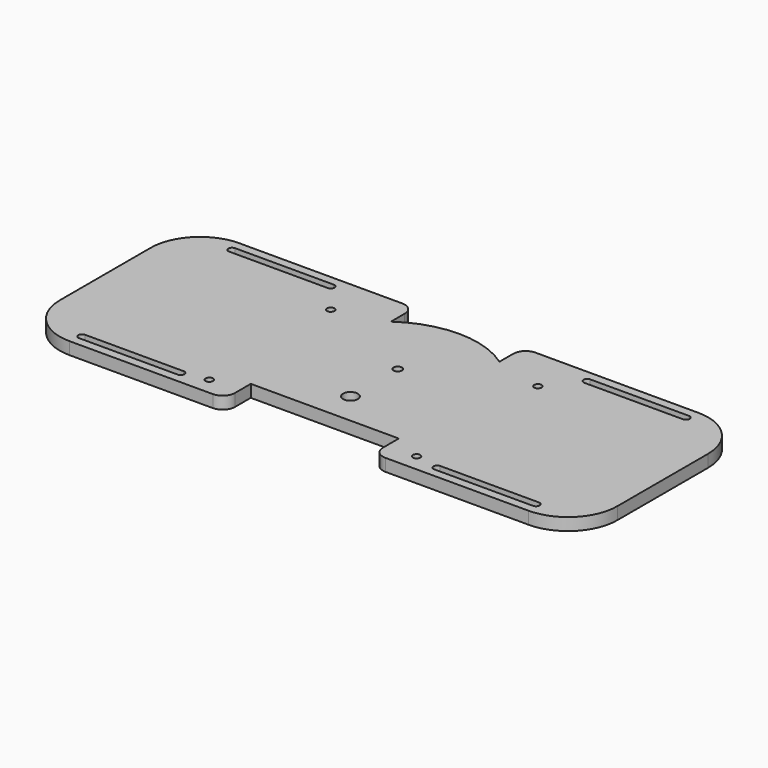
from build123d import *

# Parameters (mm, degrees)
PAD_DEPTH       = 5
SKETCH001_R     = 3
SKETCH001_R_2   = 1.7
SKETCH001_R_3   = 1.5
SKETCH001_W     = 60
SKETCH001_H     = 20
POCKET_DEPTH    = 5.001
FILLET_R        = 5
FILLET001_R     = 20
SKETCH002_R     = 3.5
POCKET001_DEPTH = 2


with BuildPart() as part:
    # Sketch → Pad (new body)
    with BuildSketch(Plane.XY):
        with BuildLine():
            ThreePointArc((-22, -30.983867), (0, -38), (22, -30.983867))
            Line((22, -43.003867), (22, -30.983867))
            Line((113, -43.003867), (22, -43.003867))
            Line((113, 43.003867), (113, -43.003867))
            Line((22, 43.003867), (113, 43.003867))
            Line((22, 30.983867), (22, 43.003867))
            ThreePointArc((22, 30.983867), (0, 38), (-22, 30.983867))
            Line((-22, 43.003867), (-22, 30.983867))
            Line((-113, 43.003867), (-22, 43.003867))
            Line((-113, -43.003867), (-113, 43.003867))
            Line((-22, -43.003867), (-113, -43.003867))
            Line((-22, -30.983867), (-22, -43.003867))
        make_face()
    extrude(amount=PAD_DEPTH)

    # Sketch001 (on Face14 of Pad) → Pocket (cut, through all)
    with BuildSketch(Plane.XY.offset(5)):
        with Locations((0, -17)):
            Circle(SKETCH001_R)
        with Locations((0, 7)):
            Circle(SKETCH001_R_2)
        with Locations((42, 25.496133)):
            Circle(SKETCH001_R_3)
        with Locations((42, -36.003867)):
            Circle(SKETCH001_R_3)
        with Locations((-42, 25.496133)):
            Circle(SKETCH001_R_3)
        with Locations((-42, -36.003867)):
            Circle(SKETCH001_R_3)
        with Locations((0, -40.003867)):
            Rectangle(SKETCH001_W, SKETCH001_H)
        with BuildLine():
            ThreePointArc((-92, 39.503867), (-93.5, 38.003867), (-92, 36.503867))
            Line((-92, 36.503867), (-52, 36.503867))
            ThreePointArc((-52, 36.503867), (-50.5, 38.003867), (-52, 39.503867))
            Line((-52, 39.503867), (-92, 39.503867))
        make_face()
        with BuildLine():
            ThreePointArc((52, 39.503867), (50.5, 38.003867), (52, 36.503867))
            Line((52, 36.503867), (92, 36.503867))
            ThreePointArc((92, 36.503867), (93.5, 38.003867), (92, 39.503867))
            Line((92, 39.503867), (52, 39.503867))
        make_face()
        with BuildLine():
            ThreePointArc((-92, -36.503867), (-93.5, -38.003867), (-92, -39.503867))
            Line((-92, -39.503867), (-52, -39.503867))
            ThreePointArc((-52, -39.503867), (-50.5, -38.003867), (-52, -36.503867))
            Line((-52, -36.503867), (-92, -36.503867))
        make_face()
        with BuildLine():
            ThreePointArc((52, -36.503867), (50.5, -38.003867), (52, -39.503867))
            Line((52, -39.503867), (92, -39.503867))
            ThreePointArc((92, -39.503867), (93.5, -38.003867), (92, -36.503867))
            Line((92, -36.503867), (52, -36.503867))
        make_face()
    extrude(amount=-POCKET_DEPTH, mode=Mode.SUBTRACT)

    # Fillet
    fillet_edges = [part.edges().sort_by_distance(p)[0] for p in [
        (22, 43.003867, 2.5),
        (-22, 43.003867, 2.5),
        (30, -43.003867, 2.5),
        (-30, -43.003867, 2.5),
    ]]
    fillet(fillet_edges, radius=FILLET_R)

    # Fillet001
    fillet001_edges = [part.edges().sort_by_distance(p)[0] for p in [
        (-113, 43.003867, 2.5),
        (-113, -43.003867, 2.5),
        (113, 43.003867, 2.5),
        (113, -43.003867, 2.5),
    ]]
    fillet(fillet001_edges, radius=FILLET001_R)

    # Sketch002 (on Face1 of Fillet001) → Pocket001 (cut)
    with BuildSketch(Plane(origin=(0, 0, 0), x_dir=(1, 0, 0), z_dir=(0, 0, -1))):
        with Locations((-42, -25.496133)):
            Circle(SKETCH002_R)
        with Locations((-42, 36.003867)):
            Circle(SKETCH002_R)
        with Locations((42, 36.003867)):
            Circle(SKETCH002_R)
        with Locations((42, -25.496133)):
            Circle(SKETCH002_R)
    extrude(amount=-POCKET001_DEPTH, mode=Mode.SUBTRACT)


solid = part.part
